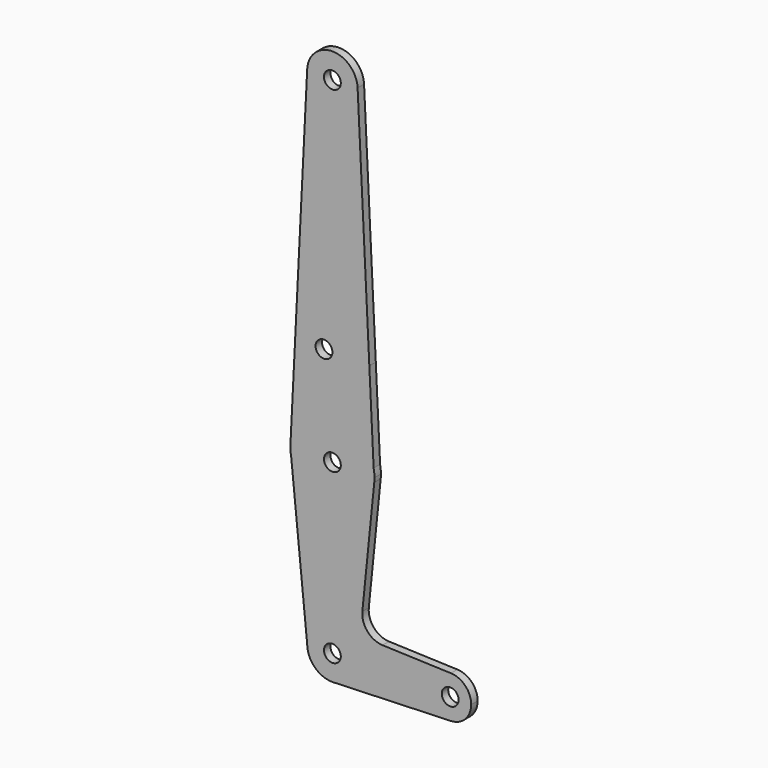
from build123d import *

# Parameters (mm, degrees)
F0_R     = 3.175
F1_DEPTH = 3.048


with BuildPart() as f1:
    # F0 (on Front) → F1 (new body)
    with BuildSketch(Plane.XZ):
        with BuildLine():
            ThreePointArc((0.6773435479, -9.500885786), (6.9705567315, -6.4912990883), (9.525, 0))
            ThreePointArc((9.525, 0), (0, 9.525), (-9.525, 0))
            ThreePointArc((-9.525, 0), (-6.7351920908, -6.7351920908), (0, -9.525))
            Line((0, -9.525), (0.6773435479, -9.500885786))
        make_face()
        with BuildLine():
            ThreePointArc((3.175, 0), (0, -3.175), (-3.175, 0))
            ThreePointArc((-3.175, 0), (0, 3.175), (3.175, 0))
        make_face(mode=Mode.SUBTRACT)
        with BuildLine():
            ThreePointArc((-9.525, 0), (0, 9.525), (9.525, 0))
            ThreePointArc((9.525, 0), (6.9705567315, -6.4912990883), (0.6773435479, -9.500885786))
            Line((0.6773435479, -9.500885786), (44.7324052746, -7.9324746146))
            ThreePointArc((44.7324052746, -7.9324746146), (36.5125, 0), (44.7324052746, 7.9324746146))
            Line((44.7324052746, 7.9324746146), (18.9341027877, 8.850924033))
            ThreePointArc((18.9341027877, 8.850924033), (13.2249738114, 11.5709798305), (11.3072231466, 17.5971800924))
            Line((11.3072231466, 17.5971800924), (15.7942028036, 61.9003804205))
            ThreePointArc((15.7942028036, 61.9003804205), (0.7807553062, 47.6442109578), (-15.5606435644, 60.3564356436))
            Line((-15.5606435644, 60.3564356436), (-9.525, 0))
        make_face()
        with BuildLine():
            ThreePointArc((0, -9.525), (0.3388863295, -9.5189695375), (0.6773435479, -9.500885786))
            Line((0.6773435479, -9.500885786), (0, -9.525))
        make_face()
        with BuildLine():
            Line((-15.875, 63.5), (-15.5606435644, 60.3564356436))
            ThreePointArc((-15.5606435644, 60.3564356436), (0.7807553062, 47.6442109578), (15.7942028036, 61.9003804205))
            Line((15.7942028036, 61.9003804205), (15.7163619021, 63.5))
            Line((15.7163619021, 63.5), (3.175, 63.5))
            ThreePointArc((3.175, 63.5), (0, 60.325), (-3.175, 63.5))
            Line((-3.175, 63.5), (-15.875, 63.5))
        make_face()
        with BuildLine():
            ThreePointArc((-15.875, 63.5), (-15.7962153946, 61.9203784605), (-15.5606435644, 60.3564356436))
            Line((-15.5606435644, 60.3564356436), (-15.875, 63.5))
        make_face()
        with BuildLine():
            ThreePointArc((44.7324052746, 7.9324746146), (36.5125, 0), (44.7324052746, -7.9324746146))
            ThreePointArc((44.7324052746, -7.9324746146), (50.1616327839, -5.5119104847), (52.3875, 0))
            ThreePointArc((52.3875, 0), (50.1616327839, 5.5119104847), (44.7324052746, 7.9324746146))
        make_face()
        with Locations((44.45, 0)):
            Circle(F0_R, mode=Mode.SUBTRACT)
        with BuildLine():
            Line((-15.7961175554, 65.0805996257), (-15.875, 63.5))
            Line((-15.875, 63.5), (-3.175, 63.5))
            ThreePointArc((-3.175, 63.5), (0, 66.675), (3.175, 63.5))
            Line((3.175, 63.5), (15.7163619021, 63.5))
            Line((15.7163619021, 63.5), (15.5642640495, 66.62558948))
            ThreePointArc((15.5642640495, 66.62558948), (-0.7811449446, 79.3557698512), (-15.7961175554, 65.0805996257))
        make_face()
        with BuildLine():
            ThreePointArc((-15.7961175554, 65.0805996257), (-15.8552671247, 64.2912833906), (-15.875, 63.5))
            Line((-15.875, 63.5), (-15.7961175554, 65.0805996257))
        make_face()
        with BuildLine():
            Line((15.7163619021, 63.5), (15.7942028036, 61.9003804205))
            ThreePointArc((15.7942028036, 61.9003804205), (15.8547878338, 62.6991705884), (15.875, 63.5))
            Line((15.875, 63.5), (15.7163619021, 63.5))
        make_face()
        with BuildLine():
            Line((-9.5131602748, 190.9747700344), (-15.7961175554, 65.0805996257))
            ThreePointArc((-15.7961175554, 65.0805996257), (-0.7811449446, 79.3557698512), (15.5642640495, 66.62558948))
            Line((15.5642640495, 66.62558948), (13.9389677434, 100.0252))
            Line((13.9389677434, 100.0252), (9.5137423742, 190.9629590015))
            ThreePointArc((9.5137423742, 190.9629590015), (9.5221851776, 190.7315479277), (9.525, 190.5))
            ThreePointArc((9.525, 190.5), (-0.2374588199, 180.9779603913), (-9.5131602748, 190.9747700344))
        make_face()
        with Locations((-3.175, 100.0252)):
            Circle(F0_R, mode=Mode.SUBTRACT)
        with BuildLine():
            Line((15.7163619021, 63.5), (15.875, 63.5))
            ThreePointArc((15.875, 63.5), (15.797125004, 65.0704988402), (15.5642640495, 66.62558948))
            Line((15.5642640495, 66.62558948), (15.7163619021, 63.5))
        make_face()
        with BuildLine():
            ThreePointArc((9.5137423742, 190.9629590015), (0.0059126842, 200.0249981648), (-9.5131602748, 190.9747700344))
            ThreePointArc((-9.5131602748, 190.9747700344), (-0.2374588199, 180.9779603913), (9.525, 190.5))
            ThreePointArc((9.525, 190.5), (9.5221851776, 190.7315479277), (9.5137423742, 190.9629590015))
        make_face()
        with Locations((0, 190.5)):
            Circle(F0_R, mode=Mode.SUBTRACT)
    extrude(amount=F1_DEPTH)


solid = f1.part
